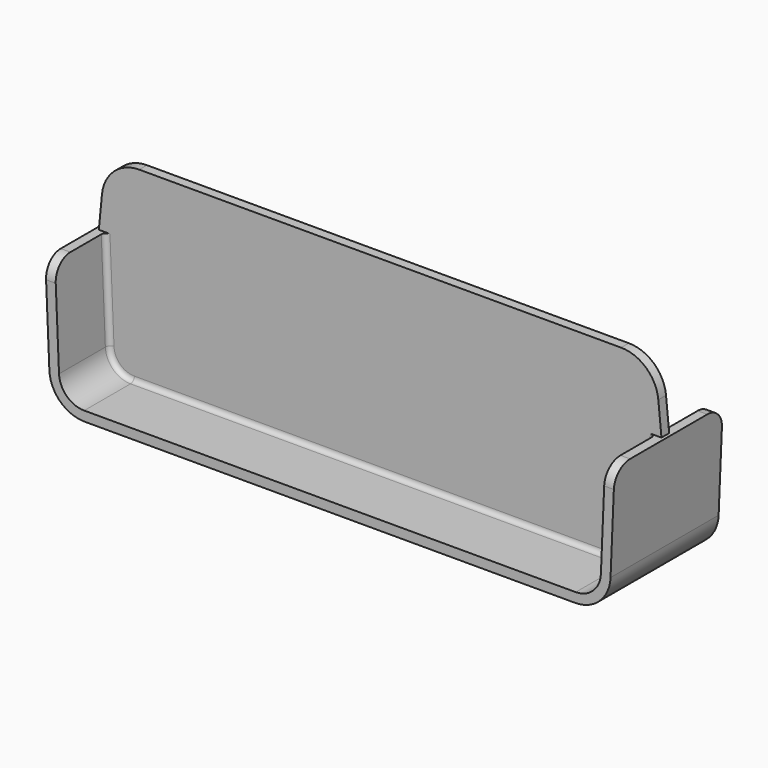
from build123d import *

# Parameters (mm, degrees)
PAD_DEPTH    = 14
PAD001_DEPTH = 1
FILLET_R     = 4
FILLET001_R  = 1


with BuildPart() as part:
    # Sketch → Pad (new body, symmetric)
    with BuildSketch(Plane.XZ):
        with BuildLine():
            Line((-50.850763, 0), (50.850763, 0))
            ThreePointArc((50.850763, 0), (55.907413, 2.03282), (58.15, 7))
            Line((58.15, 7), (59, 27.3))
            Line((59, 27.3), (57, 27.3))
            Line((57, 27.3), (56.15, 7))
            ThreePointArc((50.936259, 2), (54.548152, 3.452014), (56.15, 7))
            Line((50.936259, 2), (0, 2))
            Line((0, 2), (-50.936259, 2))
            ThreePointArc((-56.15, 7), (-54.548152, 3.452014), (-50.936259, 2))
            Line((-56.15, 7), (-57, 27.3))
            Line((-57, 27.3), (-59, 27.3))
            Line((-59, 27.3), (-58.15, 7))
            ThreePointArc((-58.15, 7), (-55.907413, 2.03282), (-50.850763, 0))
        make_face()
    extrude(amount=PAD_DEPTH, both=True)

    # Sketch001 → Pad001 (join, symmetric)
    with BuildSketch(Plane.XZ):
        with BuildLine():
            Line((-58.3, 27.3), (-57.65, 34))
            ThreePointArc((-49.938031, 41), (-55.145585, 38.989037), (-57.65, 34))
            Line((-49.938031, 41), (0, 41))
            Line((0, 41), (49.938031, 41))
            ThreePointArc((57.65, 34), (55.145585, 38.989037), (49.938031, 41))
            Line((57.65, 34), (58.3, 27.3))
            Line((58.3, 27.3), (57.43949, 6.748988))
            ThreePointArc((51.444743, 1), (55.597689, 2.669523), (57.43949, 6.748988))
            Line((51.444743, 1), (-51.444743, 1))
            ThreePointArc((-57.43949, 6.748988), (-55.597689, 2.669523), (-51.444743, 1))
            Line((-58.3, 27.3), (-57.43949, 6.748988))
        make_face()
    extrude(amount=PAD001_DEPTH, both=True)

    # Fillet
    fillet_edges = [part.edges().sort_by_distance(p)[0] for p in [
        (-58, -14, 27.3),
        (58, -14, 27.3),
        (58, 14, 27.3),
        (-58, 14, 27.3),
    ]]
    fillet(fillet_edges, radius=FILLET_R)

    # Fillet001
    fillet001_edges = [part.edges().sort_by_distance(p)[0] for p in [
        (56.575, -1, 17.15),
        (56.575, 1, 17.15),
    ]]
    fillet(fillet001_edges, radius=FILLET001_R)


solid = part.part
